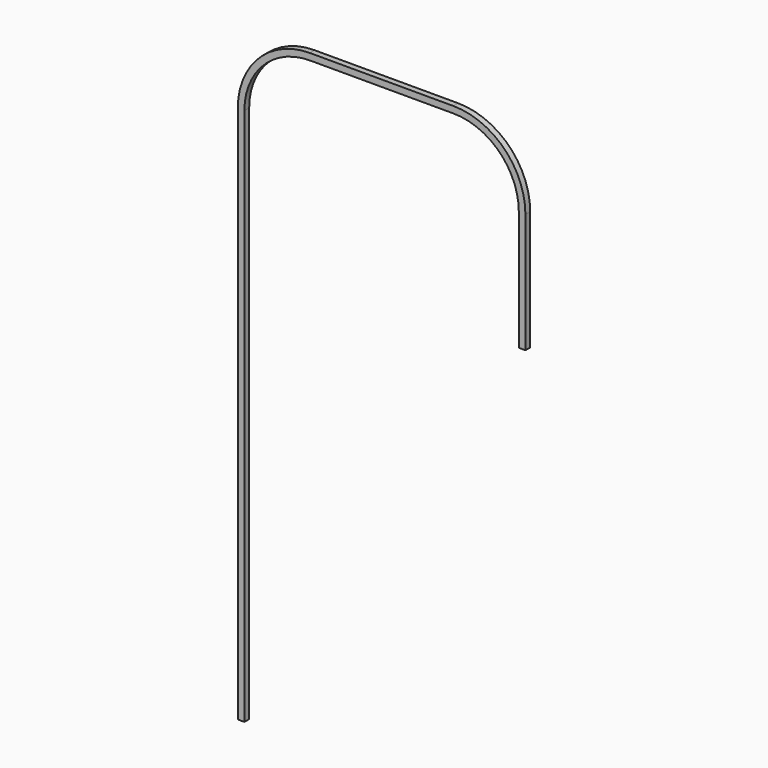
from build123d import *

# Parameters (mm, degrees)
F1_DEPTH = 10
F2_DEPTH = 1
F3_DEPTH = 700


with BuildPart() as f1:
    # F0 (on Front) → F1 (new body)
    with BuildSketch(Plane.XZ):
        with BuildLine():
            Line((67.234268, 570.5), (-172.765732, 570.5))
            ThreePointArc((-172.765732, 570.5), (-257.972099, 535.206367), (-293.265732, 450))
            Line((-293.265732, 450), (-293.265732, -450))
            Line((-293.265732, -450), (-292.765732, -450))
            Line((-292.765732, -450), (-292.765732, 450))
            ThreePointArc((-292.765732, 450), (-257.618545, 534.852814), (-172.765732, 570))
            Line((-172.765732, 570), (67.234268, 570))
            ThreePointArc((67.234268, 570), (152.087082, 534.852814), (187.234268, 450))
            Line((187.234268, 450), (187.234268, -450))
            Line((187.234268, -450), (187.734268, -450))
            Line((187.734268, -450), (187.734268, 450))
            ThreePointArc((187.734268, 450), (152.440635, 535.206367), (67.234268, 570.5))
        make_face()
        with BuildLine():
            Line((-282.765732, 450), (-282.765732, -450))
            Line((-282.765732, -450), (-282.265732, -450))
            Line((-282.265732, -450), (-282.265732, 450))
            ThreePointArc((-282.265732, 450), (-250.193924, 527.428193), (-172.765732, 559.5))
            Line((-172.765732, 559.5), (67.234268, 559.5))
            ThreePointArc((67.234268, 559.5), (144.662461, 527.428193), (176.734268, 450))
            Line((176.734268, 450), (176.734268, -450))
            Line((176.734268, -450), (177.234268, -450))
            Line((177.234268, -450), (177.234268, 450))
            ThreePointArc((177.234268, 450), (145.016014, 527.781746), (67.234268, 560))
            Line((67.234268, 560), (-172.765732, 560))
            ThreePointArc((-172.765732, 560), (-250.547478, 527.781746), (-282.765732, 450))
        make_face()
    extrude(amount=-F1_DEPTH)

    # F0 (on Front) → F2 (join)
    with BuildSketch(Plane.XZ):
        with BuildLine():
            Line((-292.765732, 450), (-292.765732, -450))
            Line((-292.765732, -450), (-282.765732, -450))
            Line((-282.765732, -450), (-282.765732, 450))
            ThreePointArc((-282.765732, 450), (-250.547478, 527.781746), (-172.765732, 560))
            Line((-172.765732, 560), (67.234268, 560))
            ThreePointArc((67.234268, 560), (145.016014, 527.781746), (177.234268, 450))
            Line((177.234268, 450), (177.234268, -450))
            Line((177.234268, -450), (187.234268, -450))
            Line((187.234268, -450), (187.234268, 450))
            ThreePointArc((187.234268, 450), (152.087082, 534.852814), (67.234268, 570))
            Line((67.234268, 570), (-172.765732, 570))
            ThreePointArc((-172.765732, 570), (-257.618545, 534.852814), (-292.765732, 450))
        make_face()
    extrude(amount=-F2_DEPTH)

    # F2_face (on face) → F3 (cut)
    with BuildSketch(Plane(origin=(182.234268, 2.75, -450), x_dir=(1, 0, 0), z_dir=(0, 0, -1))):
        Polygon((5, 1.75), (5, -7.25), (5.5, -7.25), (5.5, 2.75), (-5.5, 2.75), (-5.5, -7.25), (-5, -7.25), (-5, 1.75), align=None)
    extrude(amount=-F3_DEPTH, mode=Mode.SUBTRACT)


solid = f1.part
